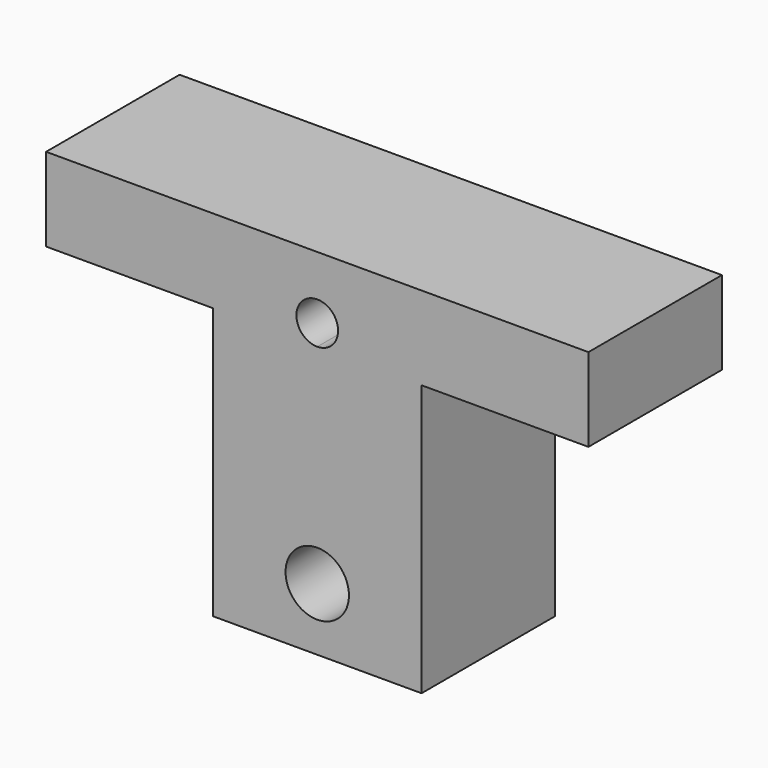
from build123d import *

# Parameters (mm, degrees)
F1_DEPTH = 50.8


with BuildPart() as f1:
    # F0 (on Front) → F1 (new body)
    with BuildSketch(Plane.XZ):
        Polygon((-31.75, -19.05), (0, -19.05), (31.75, -19.05), (31.75, 63.5), (82.55, 63.5), (82.55, 88.9), (-82.55, 88.9), (-82.55, 63.5), (-31.75, 63.5), align=None)
        with BuildLine():
            ThreePointArc((0, 9.652), (6.824994652, 6.824994652), (9.652, 0))
            ThreePointArc((9.652, 0), (-6.824994652, -6.824994652), (0, 9.652))
        make_face(mode=Mode.SUBTRACT)
        with BuildLine():
            ThreePointArc((6.35, 69.85), (4.4901280605, 65.3598719395), (0, 63.5))
            ThreePointArc((0, 63.5), (-4.4901280605, 74.3401280605), (6.35, 69.85))
        make_face(mode=Mode.SUBTRACT)
    extrude(amount=F1_DEPTH)


solid = f1.part
